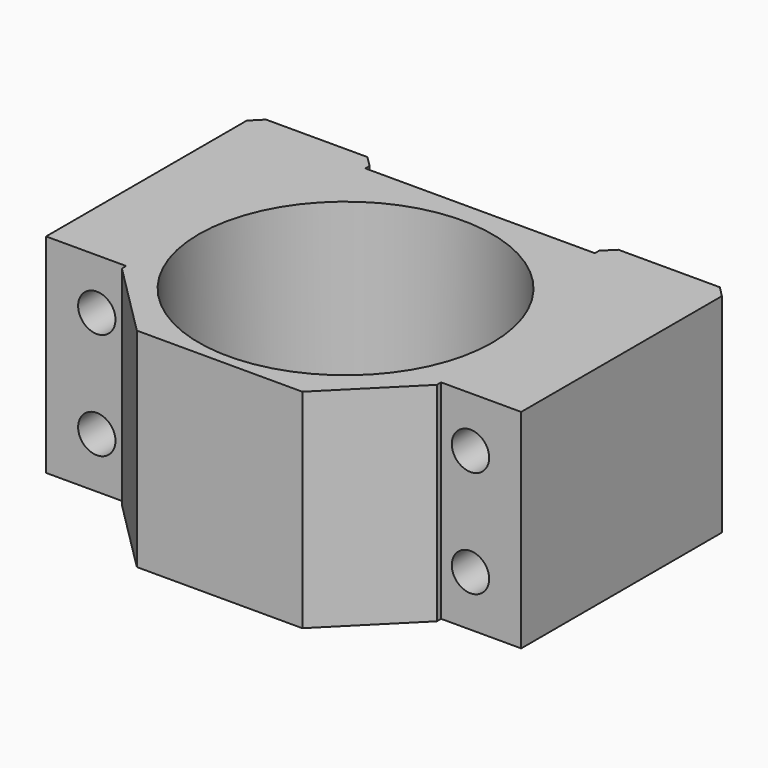
from build123d import *

# Parameters (mm, degrees)
SKETCH028_W        = 89
SKETCH028_H        = 39
PAD015_DEPTH       = 64
SKETCH029_W        = 43
SKETCH029_H        = 39
POCKET011_DEPTH    = 3
CHAMFER_SIZE       = 2
SKETCH030_R        = 27.5
POCKET012_DEPTH    = 39.001
SKETCH031_W        = 15
SKETCH031_H        = 39
POCKET002_DEPTH    = 15
CHAMFER001_SIZE    = 14
SKETCH032_R        = 3.5
POCKET003_DEPTH    = 64.001
BODY007_ROLL_ANGLE = 90


with BuildPart() as part:
    # Sketch028 → Pad015 (new body)
    with BuildSketch(Plane.XY):
        Rectangle(SKETCH028_W, SKETCH028_H)
    extrude(amount=PAD015_DEPTH)

    # Sketch029 → Pocket011 (cut)
    with BuildSketch(Plane.XY):
        Rectangle(SKETCH029_W, SKETCH029_H)
    extrude(amount=POCKET011_DEPTH, mode=Mode.SUBTRACT)

    # Chamfer
    chamfer_edges = [part.edges().sort_by_distance(p)[0] for p in [
        (21.5, 0, 0),
        (-21.5, 0, 0),
        (44.5, 0, 0),
        (-44.5, 0, 0),
    ]]
    chamfer(chamfer_edges, length=CHAMFER_SIZE)

    # Sketch030 (on Face1 of Chamfer) → Pocket012 (cut, through all)
    with BuildSketch(Plane.XZ.offset(19.5)):
        with Locations((0, 34.5)):
            Circle(SKETCH030_R)
    extrude(amount=-POCKET012_DEPTH, mode=Mode.SUBTRACT)

    # Sketch031 (on Face7 of Pocket012) → Pocket002 (cut)
    with BuildSketch(Plane.XY.offset(64)):
        with Locations((-37, 0)):
            Rectangle(SKETCH031_W, SKETCH031_H)
        with Locations((37, 0)):
            Rectangle(SKETCH031_W, SKETCH031_H)
    extrude(amount=-POCKET002_DEPTH, mode=Mode.SUBTRACT)

    # Chamfer001
    chamfer001_edges = [part.edges().sort_by_distance(p)[0] for p in [
        (29.5, 0, 64),
        (-29.5, 0, 64),
    ]]
    chamfer(chamfer001_edges, length=CHAMFER001_SIZE)

    # Sketch032 (on Face10 of Chamfer001) → Pocket003 (cut, through all)
    with BuildSketch(Plane(origin=(0, 0, 0), x_dir=(1, 0, 0), z_dir=(0, 0, -1))):
        with Locations((-35, -10)):
            Circle(SKETCH032_R)
        with Locations((-35, 10)):
            Circle(SKETCH032_R)
        with Locations((35, 10)):
            Circle(SKETCH032_R)
        with Locations((35, -10)):
            Circle(SKETCH032_R)
    extrude(amount=-POCKET003_DEPTH, mode=Mode.SUBTRACT)


with BuildPart() as part_1:
    # Body007 roll: moved
    add(part.part.rotate(Axis((0, 0, 0), (1, 0, 0)), BODY007_ROLL_ANGLE))


with BuildPart() as part_2:
    # Body007 placement: moved
    add(part_1.part.moved(Location((0, -30, 32))))


solid = part_2.part
